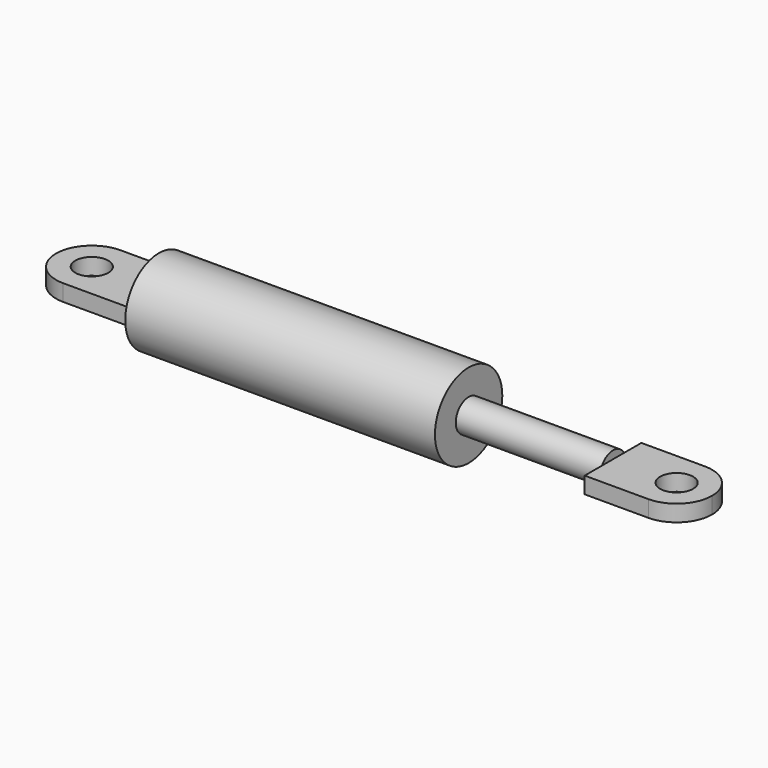
from build123d import *

# Parameters (mm, degrees)
F0_R     = 3
F1_DEPTH = 1.5
F2_R     = 7.655
F2_W     = 13
F2_H     = 3
F3_DEPTH = 56.3
F4_R     = 2.93
F5_DEPTH = 26.25
F7_DEPTH = 18
F8_R     = 3
F9_DEPTH = 9.156


with BuildPart() as f1:
    # F0 (on Top) → F1 (new body, symmetric)
    with BuildSketch(Plane.XY):
        with BuildLine():
            Line((-2.85, -6.5), (9.35, -6.5))
            Line((9.35, -6.5), (9.35, 6.5))
            Line((9.35, 6.5), (-2.85, 6.5))
            ThreePointArc((-2.85, 6.5), (-9.35, 0), (-2.85, -6.5))
        make_face()
        with Locations((-2.85, 0)):
            Circle(F0_R, mode=Mode.SUBTRACT)
    extrude(amount=F1_DEPTH, both=True)

    # F2 (on face) → F3 (join)
    with BuildSketch(Plane.YZ.offset(9.35)):
        Circle(F2_R)
        Rectangle(F2_W, F2_H, mode=Mode.SUBTRACT)
        Rectangle(F2_W, F2_H)
    extrude(amount=F3_DEPTH)

    # F4 (on face) → F5 (join)
    with BuildSketch(Plane.YZ.offset(65.65)):
        Circle(F4_R)
    extrude(amount=F5_DEPTH)

    # F6 (on face) → F7 (join)
    with BuildSketch(Plane.YZ.offset(91.9)):
        with BuildLine():
            Line((2.516923, -1.5), (6.44, -1.5))
            Line((6.44, -1.5), (6.44, 1.5))
            Line((6.44, 1.5), (2.516923, 1.5))
            ThreePointArc((2.516923, 1.5), (2.824844, 0.777919), (2.93, 0))
            ThreePointArc((2.93, 0), (2.824844, -0.777919), (2.516923, -1.5))
        make_face()
        with BuildLine():
            Line((-2.516923, -1.5), (2.516923, -1.5))
            ThreePointArc((2.516923, -1.5), (2.824844, -0.777919), (2.93, 0))
            ThreePointArc((2.93, 0), (2.824844, 0.777919), (2.516923, 1.5))
            Line((2.516923, 1.5), (-2.516923, 1.5))
            ThreePointArc((-2.516923, 1.5), (-2.93, 0), (-2.516923, -1.5))
        make_face()
        with BuildLine():
            Line((-6.44, -1.5), (-2.516923, -1.5))
            ThreePointArc((-2.516923, -1.5), (-2.93, 0), (-2.516923, 1.5))
            Line((-2.516923, 1.5), (-6.44, 1.5))
            Line((-6.44, 1.5), (-6.44, -1.5))
        make_face()
    extrude(amount=F7_DEPTH)

    # F8 (on face) → F9 (cut, through all)
    with BuildSketch(Plane.XY.offset(1.5)):
        with Locations((103.46, 0)):
            Circle(F8_R)
        with BuildLine():
            ThreePointArc((103.46, 6.44), (108.013768, 4.553768), (109.9, 0))
            Line((109.9, 0), (109.9, 6.44))
            Line((109.9, 6.44), (103.46, 6.44))
        make_face()
        with BuildLine():
            ThreePointArc((109.9, 0), (108.013768, -4.553768), (103.46, -6.44))
            Line((103.46, -6.44), (109.9, -6.44))
            Line((109.9, -6.44), (109.9, 0))
        make_face()
    extrude(amount=-F9_DEPTH, mode=Mode.SUBTRACT)


solid = f1.part
